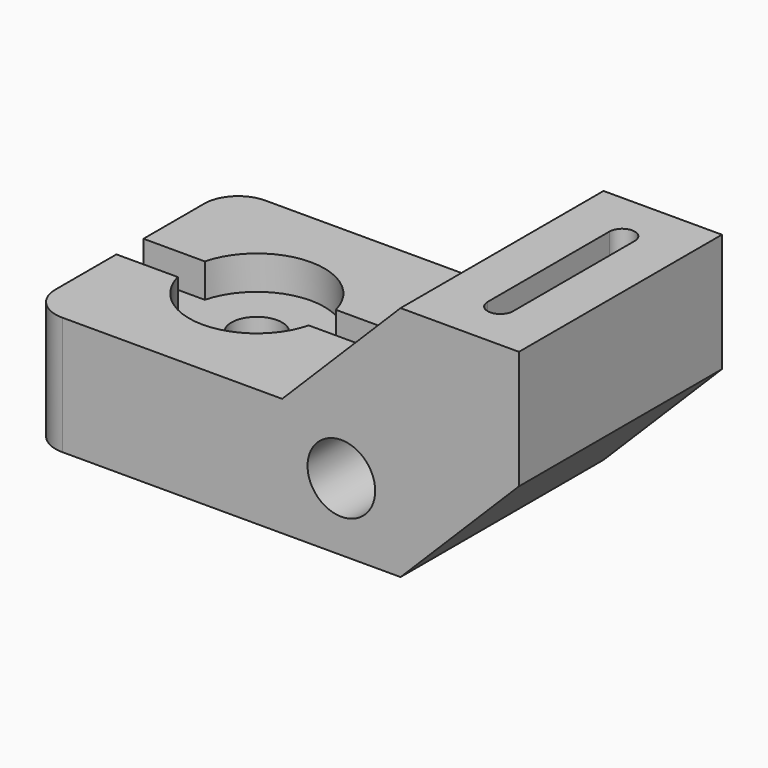
from build123d import *

# Parameters (mm, degrees)
F0_R           = 10.16
F1_DEPTH       = 76.2
F3_DEPTH       = 27.94
F4_W           = 76.2
F4_H           = 10.16
F5_DEPTH       = 10.16
F6_D           = 15.24
F6_START       = 10.16
F6_CBORE_D     = 40.64
F6_CBORE_DEPTH = 0
F7_R           = 10.16


with BuildPart() as f1:
    # F0 (on Front) → F1 (new body)
    with BuildSketch(Plane.XZ):
        Polygon((0, 35.56), (0, 0), (111.76, 0), (147.32, 35.56), (147.32, 71.12), (111.76, 71.12), (76.2, 35.56), align=None)
        with Locations((93.98, 20.32)):
            Circle(F0_R, mode=Mode.SUBTRACT)
    extrude(amount=F1_DEPTH)

    # F2 (on face) → F3 (cut)
    with BuildSketch(Plane.XY.offset(71.12)):
        with BuildLine():
            Line((133.35, -60.96), (133.35, -15.24))
            ThreePointArc((133.35, -15.24), (129.54, -11.43), (125.73, -15.24))
            Line((125.73, -15.24), (125.73, -60.96))
            ThreePointArc((125.73, -60.96), (129.54, -64.77), (133.35, -60.96))
        make_face()
    extrude(amount=-F3_DEPTH, mode=Mode.SUBTRACT)

    # F4 (on face) → F5 (cut)
    with BuildSketch(Plane.XY.offset(35.56)):
        with Locations((38.1, -38.1)):
            Rectangle(F4_W, F4_H)
    extrude(amount=-F5_DEPTH, mode=Mode.SUBTRACT)

    # F6 (through all)
    # its depths count from where the whole tool has entered the part; down to there all is cleared
    with Locations(Plane.XY.offset(35.56).offset(-F6_START)):
        with Locations((38.1, -38.1)):
            CounterBoreHole(F6_D / 2, F6_CBORE_D / 2, F6_CBORE_DEPTH)

    # F7
    f7_edges = [f1.edges().sort_by_distance(p)[0] for p in [
        (0, 0, 17.78),
        (0, -76.2, 17.78),
    ]]
    fillet(f7_edges, radius=F7_R)


solid = f1.part
